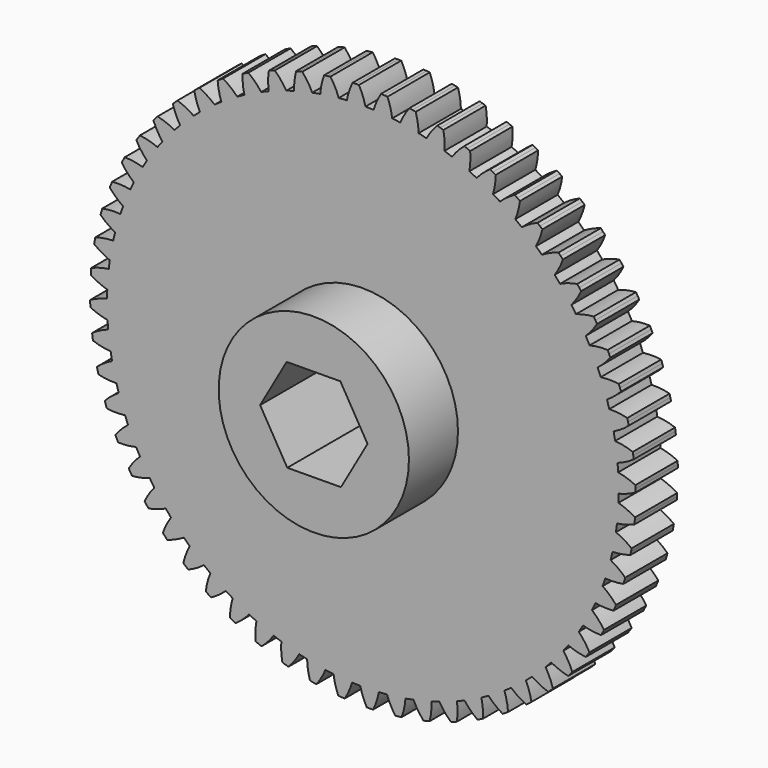
from build123d import *

# Parameters (mm, degrees)
F1_DEPTH = 6.35
F2_R     = 11.43
F3_DEPTH = 7.366
F5_DEPTH = 254


with BuildPart() as f1:
    # F0 (on Front) → F1 (new body)
    with BuildSketch(Plane.XZ):
        with BuildLine():
            ThreePointArc((0.314784, 30.732388), (-0.009529, 31.774656), (-0.473769, 32.762575))
            ThreePointArc((-0.473769, 32.762575), (-0.665753, 32.759236), (-0.857714, 32.754772))
            ThreePointArc((-0.857714, 32.754772), (-1.049645, 32.749183), (-1.241541, 32.74247))
            ThreePointArc((-1.241541, 32.74247), (-1.653441, 31.731609), (-1.922762, 30.673796))
            ThreePointArc((-1.922762, 30.673796), (-2.411362, 30.639257), (-2.89935, 30.596937))
            ThreePointArc((-2.89935, 30.596937), (-3.330833, 31.599595), (-3.895795, 32.533575))
            ThreePointArc((-3.895795, 32.533575), (-4.086378, 32.510187), (-4.276821, 32.485682))
            ThreePointArc((-4.276821, 32.485682), (-4.467117, 32.460062), (-4.65726, 32.433327))
            ThreePointArc((-4.65726, 32.433327), (-4.961239, 31.384948), (-5.118513, 30.304778))
            ThreePointArc((-5.118513, 30.304778), (-5.600827, 30.219356), (-6.081717, 30.126259))
            ThreePointArc((-6.081717, 30.126259), (-6.615644, 31.078322), (-7.275138, 31.948132))
            ThreePointArc((-7.275138, 31.948132), (-7.462233, 31.90495), (-7.649071, 31.860673))
            ThreePointArc((-7.649071, 31.860673), (-7.835646, 31.815301), (-8.021952, 31.768837))
            ThreePointArc((-8.021952, 31.768837), (-8.214681, 30.694427), (-8.258185, 29.603735))
            ThreePointArc((-8.258185, 29.603735), (-8.728928, 29.468366), (-9.197453, 29.325511))
            ThreePointArc((-9.197453, 29.325511), (-9.827972, 30.216549), (-10.574774, 31.012657))
            ThreePointArc((-10.574774, 31.012657), (-10.756329, 30.950156), (-10.937516, 30.886591))
            ThreePointArc((-10.937516, 30.886591), (-11.118326, 30.821966), (-11.298755, 30.756282))
            ThreePointArc((-11.298755, 30.756282), (-11.378122, 29.667612), (-11.307379, 28.578347))
            ThreePointArc((-11.307379, 28.578347), (-11.761393, 28.394514), (-12.212419, 28.203468))
            ThreePointArc((-12.212419, 28.203468), (-12.932623, 29.023717), (-13.758549, 29.737402))
            ThreePointArc((-13.758549, 29.737402), (-13.932577, 29.656265), (-14.106127, 29.574109))
            ThreePointArc((-14.106127, 29.574109), (-14.279192, 29.490938), (-14.451766, 29.406754))
            ThreePointArc((-14.451766, 29.406754), (-14.416901, 28.315752), (-14.232687, 27.239849))
            ThreePointArc((-14.232687, 27.239849), (-14.664997, 27.009565), (-15.093583, 26.772421))
            ThreePointArc((-15.093583, 26.772421), (-15.895581, 27.512894), (-16.791583, 28.136337))
            ThreePointArc((-16.791583, 28.136337), (-16.956177, 28.037454), (-17.120188, 27.937608))
            ThreePointArc((-17.120188, 27.937608), (-17.283611, 27.836802), (-17.446441, 27.73504))
            ThreePointArc((-17.446441, 27.73504), (-17.297726, 26.653659), (-17.002058, 25.602906))
            ThreePointArc((-17.002058, 25.602906), (-17.407929, 25.328694), (-17.809379, 25.04805))
            ThreePointArc((-17.809379, 25.04805), (-18.684384, 25.700635), (-19.640646, 26.227005))
            ThreePointArc((-19.640646, 26.227005), (-19.794001, 26.111459), (-19.946677, 25.995016))
            ThreePointArc((-19.946677, 25.995016), (-20.098668, 25.87768), (-20.249969, 25.759455))
            ThreePointArc((-20.249969, 25.759455), (-19.989033, 24.699543), (-19.585152, 23.685451))
            ThreePointArc((-19.585152, 23.685451), (-19.960136, 23.370317), (-20.330051, 23.049247))
            ThreePointArc((-20.330051, 23.049247), (-21.268477, 23.606795), (-22.274521, 24.030324))
            ThreePointArc((-22.274521, 24.030324), (-22.414958, 23.899381), (-22.554626, 23.767617))
            ThreePointArc((-22.554626, 23.767617), (-22.693519, 23.635036), (-22.831633, 23.501644))
            ThreePointArc((-22.831633, 23.501644), (-22.461336, 22.474813), (-21.953666, 21.508494))
            ThreePointArc((-21.953666, 21.508494), (-22.293656, 21.15589), (-22.627983, 20.797912))
            ThreePointArc((-22.627983, 20.797912), (-23.619548, 21.254313), (-24.664351, 21.570362))
            ThreePointArc((-24.664351, 21.570362), (-24.790332, 21.425456), (-24.915462, 21.279815))
            ThreePointArc((-24.915462, 21.279815), (-25.039736, 21.133442), (-25.16315, 20.986344))
            ThreePointArc((-25.16315, 20.986344), (-24.687548, 20.003845), (-24.081651, 19.095885))
            ThreePointArc((-24.081651, 19.095885), (-24.382922, 18.709674), (-24.677999, 18.31871))
            ThreePointArc((-24.677999, 18.31871), (-25.711838, 18.668965), (-26.783954, 18.874071))
            ThreePointArc((-26.783954, 18.874071), (-26.894098, 18.71679), (-27.003319, 18.558867))
            ThreePointArc((-27.003319, 18.558867), (-27.111612, 18.400306), (-27.218974, 18.241113))
            ThreePointArc((-27.218974, 18.241113), (-26.643279, 17.31371), (-25.945793, 16.474058))
            ThreePointArc((-25.945793, 16.474058), (-26.205043, 16.058471), (-26.457637, 15.638805))
            ThreePointArc((-26.457637, 15.638805), (-27.522424, 15.879075), (-28.610107, 15.970991))
            ThreePointArc((-28.610107, 15.970991), (-28.703207, 15.803059), (-28.795322, 15.634584))
            ThreePointArc((-28.795322, 15.634584), (-28.886447, 15.465572), (-28.976581, 15.296029))
            ThreePointArc((-28.976581, 15.296029), (-28.307099, 14.433883), (-27.525667, 13.671737))
            ThreePointArc((-27.525667, 13.671737), (-27.740056, 13.231328), (-27.947399, 12.787558))
            ThreePointArc((-27.947399, 12.787558), (-29.031469, 12.915211), (-30.122801, 12.89293))
            ThreePointArc((-30.122801, 12.89293), (-30.197837, 12.716186), (-30.271837, 12.539005))
            ThreePointArc((-30.271837, 12.539005), (-30.344797, 12.361394), (-30.416715, 12.183358))
            ThreePointArc((-30.416715, 12.183358), (-29.660782, 11.395915), (-28.803964, 10.719627))
            ThreePointArc((-28.803964, 10.719627), (-28.971144, 10.25922), (-29.130964, 9.796208))
            ThreePointArc((-29.130964, 9.796208), (-30.222438, 9.809846), (-31.305463, 9.673611))
            ThreePointArc((-31.305463, 9.673611), (-31.361614, 9.489992), (-31.416687, 9.306047))
            ThreePointArc((-31.416687, 9.306047), (-31.470682, 9.121782), (-31.523597, 8.937204))
            ThreePointArc((-31.523597, 8.937204), (-30.689494, 8.233091), (-29.766679, 7.650069))
            ThreePointArc((-29.766679, 7.650069), (-29.884817, 7.17471), (-29.995364, 6.697528))
            ThreePointArc((-29.995364, 6.697528), (-31.082285, 6.597001), (-32.145136, 6.348306))
            ThreePointArc((-32.145136, 6.348306), (-32.181786, 6.159823), (-32.21733, 5.971129))
            ThreePointArc((-32.21733, 5.971129), (-32.251769, 5.78223), (-32.285099, 5.593132))
            ThreePointArc((-32.285099, 5.593132), (-31.381966, 4.980063), (-30.403264, 4.496696))
            ThreePointArc((-30.403264, 4.496696), (-30.471066, 4.011592), (-30.531129, 3.525469))
            ThreePointArc((-30.531129, 3.525469), (-31.601587, 3.311879), (-32.63262, 2.953448))
            ThreePointArc((-32.63262, 2.953448), (-32.649367, 2.762167), (-32.664993, 2.570791))
            ThreePointArc((-32.664993, 2.570791), (-32.679498, 2.379326), (-32.69288, 2.187781))
            ThreePointArc((-32.69288, 2.187781), (-31.730611, 1.672473), (-30.706745, 1.294056))
            ThreePointArc((-30.706745, 1.294056), (-30.723468, 0.804522), (-30.732388, 0.314784))
            ThreePointArc((-30.732388, 0.314784), (-31.774656, -0.009529), (-32.762575, -0.473769))
            ThreePointArc((-32.762575, -0.473769), (-32.759236, -0.665753), (-32.754772, -0.857714))
            ThreePointArc((-32.754772, -0.857714), (-32.749183, -1.049645), (-32.74247, -1.241541))
            ThreePointArc((-32.74247, -1.241541), (-31.731609, -1.653441), (-30.673796, -1.922762))
            ThreePointArc((-30.673796, -1.922762), (-30.639257, -2.411362), (-30.596937, -2.89935))
            ThreePointArc((-30.596937, -2.89935), (-31.599595, -3.330833), (-32.533575, -3.895795))
            ThreePointArc((-32.533575, -3.895795), (-32.510187, -4.086378), (-32.485682, -4.276821))
            ThreePointArc((-32.485682, -4.276821), (-32.460062, -4.467117), (-32.433327, -4.65726))
            ThreePointArc((-32.433327, -4.65726), (-31.384948, -4.961239), (-30.304778, -5.118513))
            ThreePointArc((-30.304778, -5.118513), (-30.219356, -5.600827), (-30.126259, -6.081717))
            ThreePointArc((-30.126259, -6.081717), (-31.078322, -6.615644), (-31.948132, -7.275138))
            ThreePointArc((-31.948132, -7.275138), (-31.90495, -7.462233), (-31.860673, -7.649071))
            ThreePointArc((-31.860673, -7.649071), (-31.815301, -7.835646), (-31.768837, -8.021952))
            ThreePointArc((-31.768837, -8.021952), (-30.694427, -8.214681), (-29.603735, -8.258185))
            ThreePointArc((-29.603735, -8.258185), (-29.468366, -8.728928), (-29.325511, -9.197453))
            ThreePointArc((-29.325511, -9.197453), (-30.216549, -9.827972), (-31.012657, -10.574774))
            ThreePointArc((-31.012657, -10.574774), (-30.950156, -10.756329), (-30.886591, -10.937516))
            ThreePointArc((-30.886591, -10.937516), (-30.821966, -11.118326), (-30.756282, -11.298755))
            ThreePointArc((-30.756282, -11.298755), (-29.667612, -11.378122), (-28.578347, -11.307379))
            ThreePointArc((-28.578347, -11.307379), (-28.394514, -11.761393), (-28.203468, -12.212419))
            ThreePointArc((-28.203468, -12.212419), (-29.023717, -12.932623), (-29.737402, -13.758549))
            ThreePointArc((-29.737402, -13.758549), (-29.656265, -13.932577), (-29.574109, -14.106127))
            ThreePointArc((-29.574109, -14.106127), (-29.490938, -14.279192), (-29.406754, -14.451766))
            ThreePointArc((-29.406754, -14.451766), (-28.315752, -14.416901), (-27.239849, -14.232687))
            ThreePointArc((-27.239849, -14.232687), (-27.009565, -14.664997), (-26.772421, -15.093583))
            ThreePointArc((-26.772421, -15.093583), (-27.512894, -15.895581), (-28.136337, -16.791583))
            ThreePointArc((-28.136337, -16.791583), (-28.037454, -16.956177), (-27.937608, -17.120188))
            ThreePointArc((-27.937608, -17.120188), (-27.836802, -17.283611), (-27.73504, -17.446441))
            ThreePointArc((-27.73504, -17.446441), (-26.653659, -17.297726), (-25.602906, -17.002058))
            ThreePointArc((-25.602906, -17.002058), (-25.328694, -17.407929), (-25.04805, -17.809379))
            ThreePointArc((-25.04805, -17.809379), (-25.700635, -18.684384), (-26.227005, -19.640646))
            ThreePointArc((-26.227005, -19.640646), (-26.111459, -19.794001), (-25.995016, -19.946677))
            ThreePointArc((-25.995016, -19.946677), (-25.87768, -20.098668), (-25.759455, -20.249969))
            ThreePointArc((-25.759455, -20.249969), (-24.699543, -19.989033), (-23.685451, -19.585152))
            ThreePointArc((-23.685451, -19.585152), (-23.370317, -19.960136), (-23.049247, -20.330051))
            ThreePointArc((-23.049247, -20.330051), (-23.606795, -21.268477), (-24.030324, -22.274521))
            ThreePointArc((-24.030324, -22.274521), (-23.899381, -22.414958), (-23.767617, -22.554626))
            ThreePointArc((-23.767617, -22.554626), (-23.635036, -22.693519), (-23.501644, -22.831633))
            ThreePointArc((-23.501644, -22.831633), (-22.474813, -22.461336), (-21.508494, -21.953666))
            ThreePointArc((-21.508494, -21.953666), (-21.15589, -22.293656), (-20.797912, -22.627983))
            ThreePointArc((-20.797912, -22.627983), (-21.254313, -23.619548), (-21.570362, -24.664351))
            ThreePointArc((-21.570362, -24.664351), (-21.425456, -24.790332), (-21.279815, -24.915462))
            ThreePointArc((-21.279815, -24.915462), (-21.133442, -25.039736), (-20.986344, -25.16315))
            ThreePointArc((-20.986344, -25.16315), (-20.003845, -24.687548), (-19.095885, -24.081651))
            ThreePointArc((-19.095885, -24.081651), (-18.709674, -24.382922), (-18.31871, -24.677999))
            ThreePointArc((-18.31871, -24.677999), (-18.668965, -25.711838), (-18.874071, -26.783954))
            ThreePointArc((-18.874071, -26.783954), (-18.71679, -26.894098), (-18.558867, -27.003319))
            ThreePointArc((-18.558867, -27.003319), (-18.400306, -27.111612), (-18.241113, -27.218974))
            ThreePointArc((-18.241113, -27.218974), (-17.31371, -26.643279), (-16.474058, -25.945793))
            ThreePointArc((-16.474058, -25.945793), (-16.058471, -26.205043), (-15.638805, -26.457637))
            ThreePointArc((-15.638805, -26.457637), (-15.879075, -27.522424), (-15.970991, -28.610107))
            ThreePointArc((-15.970991, -28.610107), (-15.803059, -28.703207), (-15.634584, -28.795322))
            ThreePointArc((-15.634584, -28.795322), (-15.465572, -28.886447), (-15.296029, -28.976581))
            ThreePointArc((-15.296029, -28.976581), (-14.433883, -28.307099), (-13.671737, -27.525667))
            ThreePointArc((-13.671737, -27.525667), (-13.231328, -27.740056), (-12.787558, -27.947399))
            ThreePointArc((-12.787558, -27.947399), (-12.915211, -29.031469), (-12.89293, -30.122801))
            ThreePointArc((-12.89293, -30.122801), (-12.716186, -30.197837), (-12.539005, -30.271837))
            ThreePointArc((-12.539005, -30.271837), (-12.361394, -30.344797), (-12.183358, -30.416715))
            ThreePointArc((-12.183358, -30.416715), (-11.395915, -29.660782), (-10.719627, -28.803964))
            ThreePointArc((-10.719627, -28.803964), (-10.25922, -28.971144), (-9.796208, -29.130964))
            ThreePointArc((-9.796208, -29.130964), (-9.809846, -30.222438), (-9.673611, -31.305463))
            ThreePointArc((-9.673611, -31.305463), (-9.489992, -31.361614), (-9.306047, -31.416687))
            ThreePointArc((-9.306047, -31.416687), (-9.121782, -31.470682), (-8.937204, -31.523597))
            ThreePointArc((-8.937204, -31.523597), (-8.233091, -30.689494), (-7.650069, -29.766679))
            ThreePointArc((-7.650069, -29.766679), (-7.17471, -29.884817), (-6.697528, -29.995364))
            ThreePointArc((-6.697528, -29.995364), (-6.597001, -31.082285), (-6.348306, -32.145136))
            ThreePointArc((-6.348306, -32.145136), (-6.159823, -32.181786), (-5.971129, -32.21733))
            ThreePointArc((-5.971129, -32.21733), (-5.78223, -32.251769), (-5.593132, -32.285099))
            ThreePointArc((-5.593132, -32.285099), (-4.980063, -31.381966), (-4.496696, -30.403264))
            ThreePointArc((-4.496696, -30.403264), (-4.011592, -30.471066), (-3.525469, -30.531129))
            ThreePointArc((-3.525469, -30.531129), (-3.311879, -31.601587), (-2.953448, -32.63262))
            ThreePointArc((-2.953448, -32.63262), (-2.762167, -32.649367), (-2.570791, -32.664993))
            ThreePointArc((-2.570791, -32.664993), (-2.379326, -32.679498), (-2.187781, -32.69288))
            ThreePointArc((-2.187781, -32.69288), (-1.672473, -31.730611), (-1.294056, -30.706745))
            ThreePointArc((-1.294056, -30.706745), (-0.804522, -30.723468), (-0.314784, -30.732388))
            ThreePointArc((-0.314784, -30.732388), (0.009529, -31.774656), (0.473769, -32.762575))
            ThreePointArc((0.473769, -32.762575), (0.665753, -32.759236), (0.857714, -32.754772))
            ThreePointArc((0.857714, -32.754772), (1.049645, -32.749183), (1.241541, -32.74247))
            ThreePointArc((1.241541, -32.74247), (1.653441, -31.731609), (1.922762, -30.673796))
            ThreePointArc((1.922762, -30.673796), (2.411362, -30.639257), (2.89935, -30.596937))
            ThreePointArc((2.89935, -30.596937), (3.330833, -31.599595), (3.895795, -32.533575))
            ThreePointArc((3.895795, -32.533575), (4.086378, -32.510187), (4.276821, -32.485682))
            ThreePointArc((4.276821, -32.485682), (4.467117, -32.460062), (4.65726, -32.433327))
            ThreePointArc((4.65726, -32.433327), (4.961239, -31.384948), (5.118513, -30.304778))
            ThreePointArc((5.118513, -30.304778), (5.600827, -30.219356), (6.081717, -30.126259))
            ThreePointArc((6.081717, -30.126259), (6.615644, -31.078322), (7.275138, -31.948132))
            ThreePointArc((7.275138, -31.948132), (7.462233, -31.90495), (7.649071, -31.860673))
            ThreePointArc((7.649071, -31.860673), (7.835646, -31.815301), (8.021952, -31.768837))
            ThreePointArc((8.021952, -31.768837), (8.214681, -30.694427), (8.258185, -29.603735))
            Line((8.258185, -29.603735), (9.197453, -29.325511))
            ThreePointArc((9.197453, -29.325511), (9.827972, -30.216549), (10.574774, -31.012657))
            ThreePointArc((10.574774, -31.012657), (10.756329, -30.950156), (10.937516, -30.886591))
            ThreePointArc((10.937516, -30.886591), (11.118326, -30.821966), (11.298755, -30.756282))
            ThreePointArc((11.298755, -30.756282), (11.378122, -29.667612), (11.307379, -28.578347))
            ThreePointArc((11.307379, -28.578347), (11.761393, -28.394514), (12.212419, -28.203468))
            ThreePointArc((12.212419, -28.203468), (12.932623, -29.023717), (13.758549, -29.737402))
            ThreePointArc((13.758549, -29.737402), (13.932577, -29.656265), (14.106127, -29.574109))
            ThreePointArc((14.106127, -29.574109), (14.279192, -29.490938), (14.451766, -29.406754))
            ThreePointArc((14.451766, -29.406754), (14.416901, -28.315752), (14.232687, -27.239849))
            ThreePointArc((14.232687, -27.239849), (14.664997, -27.009565), (15.093583, -26.772421))
            ThreePointArc((15.093583, -26.772421), (15.895581, -27.512894), (16.791583, -28.136337))
            ThreePointArc((16.791583, -28.136337), (16.956177, -28.037454), (17.120188, -27.937608))
            ThreePointArc((17.120188, -27.937608), (17.283611, -27.836802), (17.446441, -27.73504))
            ThreePointArc((17.446441, -27.73504), (17.297726, -26.653659), (17.002058, -25.602906))
            ThreePointArc((17.002058, -25.602906), (17.407929, -25.328694), (17.809379, -25.04805))
            ThreePointArc((17.809379, -25.04805), (18.684384, -25.700635), (19.640646, -26.227005))
            ThreePointArc((19.640646, -26.227005), (19.794001, -26.111459), (19.946677, -25.995016))
            ThreePointArc((19.946677, -25.995016), (20.098668, -25.87768), (20.249969, -25.759455))
            ThreePointArc((20.249969, -25.759455), (19.989033, -24.699543), (19.585152, -23.685451))
            ThreePointArc((19.585152, -23.685451), (19.960136, -23.370317), (20.330051, -23.049247))
            ThreePointArc((20.330051, -23.049247), (21.268477, -23.606795), (22.274521, -24.030324))
            ThreePointArc((22.274521, -24.030324), (22.414958, -23.899381), (22.554626, -23.767617))
            ThreePointArc((22.554626, -23.767617), (22.693519, -23.635036), (22.831633, -23.501644))
            ThreePointArc((22.831633, -23.501644), (22.461336, -22.474813), (21.953666, -21.508494))
            ThreePointArc((21.953666, -21.508494), (22.293656, -21.15589), (22.627983, -20.797912))
            ThreePointArc((22.627983, -20.797912), (23.619548, -21.254313), (24.664351, -21.570362))
            ThreePointArc((24.664351, -21.570362), (24.790332, -21.425456), (24.915462, -21.279815))
            ThreePointArc((24.915462, -21.279815), (25.039736, -21.133442), (25.16315, -20.986344))
            ThreePointArc((25.16315, -20.986344), (24.687548, -20.003845), (24.081651, -19.095885))
            ThreePointArc((24.081651, -19.095885), (24.382922, -18.709674), (24.677999, -18.31871))
            ThreePointArc((24.677999, -18.31871), (25.711838, -18.668965), (26.783954, -18.874071))
            ThreePointArc((26.783954, -18.874071), (26.894098, -18.71679), (27.003319, -18.558867))
            ThreePointArc((27.003319, -18.558867), (27.111612, -18.400306), (27.218974, -18.241113))
            ThreePointArc((27.218974, -18.241113), (26.643279, -17.31371), (25.945793, -16.474058))
            ThreePointArc((25.945793, -16.474058), (26.205043, -16.058471), (26.457637, -15.638805))
            ThreePointArc((26.457637, -15.638805), (27.522424, -15.879075), (28.610107, -15.970991))
            ThreePointArc((28.610107, -15.970991), (28.703207, -15.803059), (28.795322, -15.634584))
            ThreePointArc((28.795322, -15.634584), (28.886447, -15.465572), (28.976581, -15.296029))
            ThreePointArc((28.976581, -15.296029), (28.307099, -14.433883), (27.525667, -13.671737))
            ThreePointArc((27.525667, -13.671737), (27.740056, -13.231328), (27.947399, -12.787558))
            ThreePointArc((27.947399, -12.787558), (29.031469, -12.915211), (30.122801, -12.89293))
            ThreePointArc((30.122801, -12.89293), (30.197837, -12.716186), (30.271837, -12.539005))
            ThreePointArc((30.271837, -12.539005), (30.344797, -12.361394), (30.416715, -12.183358))
            ThreePointArc((30.416715, -12.183358), (29.660782, -11.395915), (28.803964, -10.719627))
            ThreePointArc((28.803964, -10.719627), (28.971144, -10.25922), (29.130964, -9.796208))
            ThreePointArc((29.130964, -9.796208), (30.222438, -9.809846), (31.305463, -9.673611))
            ThreePointArc((31.305463, -9.673611), (31.361614, -9.489992), (31.416687, -9.306047))
            ThreePointArc((31.416687, -9.306047), (31.470682, -9.121782), (31.523597, -8.937204))
            ThreePointArc((31.523597, -8.937204), (30.689494, -8.233091), (29.766679, -7.650069))
            ThreePointArc((29.766679, -7.650069), (29.884817, -7.17471), (29.995364, -6.697528))
            ThreePointArc((29.995364, -6.697528), (31.082285, -6.597001), (32.145136, -6.348306))
            ThreePointArc((32.145136, -6.348306), (32.181786, -6.159823), (32.21733, -5.971129))
            ThreePointArc((32.21733, -5.971129), (32.251769, -5.78223), (32.285099, -5.593132))
            ThreePointArc((32.285099, -5.593132), (31.381966, -4.980063), (30.403264, -4.496696))
            ThreePointArc((30.403264, -4.496696), (30.471066, -4.011592), (30.531129, -3.525469))
            ThreePointArc((30.531129, -3.525469), (31.601587, -3.311879), (32.63262, -2.953448))
            ThreePointArc((32.63262, -2.953448), (32.649367, -2.762167), (32.664993, -2.570791))
            ThreePointArc((32.664993, -2.570791), (32.679498, -2.379326), (32.69288, -2.187781))
            ThreePointArc((32.69288, -2.187781), (31.730611, -1.672473), (30.706745, -1.294056))
            ThreePointArc((30.706745, -1.294056), (30.723468, -0.804522), (30.732388, -0.314784))
            ThreePointArc((30.732388, -0.314784), (31.774656, 0.009529), (32.762575, 0.473769))
            ThreePointArc((32.762575, 0.473769), (32.759236, 0.665753), (32.754772, 0.857714))
            ThreePointArc((32.754772, 0.857714), (32.749183, 1.049645), (32.74247, 1.241541))
            ThreePointArc((32.74247, 1.241541), (31.731609, 1.653441), (30.673796, 1.922762))
            ThreePointArc((30.673796, 1.922762), (30.639257, 2.411362), (30.596937, 2.89935))
            ThreePointArc((30.596937, 2.89935), (31.599595, 3.330833), (32.533575, 3.895795))
            ThreePointArc((32.533575, 3.895795), (32.510187, 4.086378), (32.485682, 4.276821))
            ThreePointArc((32.485682, 4.276821), (32.460062, 4.467117), (32.433327, 4.65726))
            ThreePointArc((32.433327, 4.65726), (31.384948, 4.961239), (30.304778, 5.118513))
            ThreePointArc((30.304778, 5.118513), (30.219356, 5.600827), (30.126259, 6.081717))
            ThreePointArc((30.126259, 6.081717), (31.078322, 6.615644), (31.948132, 7.275138))
            ThreePointArc((31.948132, 7.275138), (31.90495, 7.462233), (31.860673, 7.649071))
            ThreePointArc((31.860673, 7.649071), (31.815301, 7.835646), (31.768837, 8.021952))
            ThreePointArc((31.768837, 8.021952), (30.694427, 8.214681), (29.603735, 8.258185))
            ThreePointArc((29.603735, 8.258185), (29.468366, 8.728928), (29.325511, 9.197453))
            ThreePointArc((29.325511, 9.197453), (30.216549, 9.827972), (31.012657, 10.574774))
            ThreePointArc((31.012657, 10.574774), (30.950156, 10.756329), (30.886591, 10.937516))
            ThreePointArc((30.886591, 10.937516), (30.821966, 11.118326), (30.756282, 11.298755))
            ThreePointArc((30.756282, 11.298755), (29.667612, 11.378122), (28.578347, 11.307379))
            ThreePointArc((28.578347, 11.307379), (28.394514, 11.761393), (28.203468, 12.212419))
            ThreePointArc((28.203468, 12.212419), (29.023717, 12.932623), (29.737402, 13.758549))
            ThreePointArc((29.737402, 13.758549), (29.656265, 13.932577), (29.574109, 14.106127))
            ThreePointArc((29.574109, 14.106127), (29.490938, 14.279192), (29.406754, 14.451766))
            ThreePointArc((29.406754, 14.451766), (28.315752, 14.416901), (27.239849, 14.232687))
            ThreePointArc((27.239849, 14.232687), (27.009565, 14.664997), (26.772421, 15.093583))
            ThreePointArc((26.772421, 15.093583), (27.512894, 15.895581), (28.136337, 16.791583))
            ThreePointArc((28.136337, 16.791583), (28.037454, 16.956177), (27.937608, 17.120188))
            ThreePointArc((27.937608, 17.120188), (27.836802, 17.283611), (27.73504, 17.446441))
            ThreePointArc((27.73504, 17.446441), (26.653659, 17.297726), (25.602906, 17.002058))
            ThreePointArc((25.602906, 17.002058), (25.328694, 17.407929), (25.04805, 17.809379))
            ThreePointArc((25.04805, 17.809379), (25.700635, 18.684384), (26.227005, 19.640646))
            ThreePointArc((26.227005, 19.640646), (26.111459, 19.794001), (25.995016, 19.946677))
            ThreePointArc((25.995016, 19.946677), (25.87768, 20.098668), (25.759455, 20.249969))
            ThreePointArc((25.759455, 20.249969), (24.699543, 19.989033), (23.685451, 19.585152))
            ThreePointArc((23.685451, 19.585152), (23.370317, 19.960136), (23.049247, 20.330051))
            ThreePointArc((23.049247, 20.330051), (23.606795, 21.268477), (24.030324, 22.274521))
            ThreePointArc((24.030324, 22.274521), (23.899381, 22.414958), (23.767617, 22.554626))
            ThreePointArc((23.767617, 22.554626), (23.635036, 22.693519), (23.501644, 22.831633))
            ThreePointArc((23.501644, 22.831633), (22.474813, 22.461336), (21.508494, 21.953666))
            ThreePointArc((21.508494, 21.953666), (21.15589, 22.293656), (20.797912, 22.627983))
            ThreePointArc((20.797912, 22.627983), (21.254313, 23.619548), (21.570362, 24.664351))
            ThreePointArc((21.570362, 24.664351), (21.425456, 24.790332), (21.279815, 24.915462))
            ThreePointArc((21.279815, 24.915462), (21.133442, 25.039736), (20.986344, 25.16315))
            ThreePointArc((20.986344, 25.16315), (20.003845, 24.687548), (19.095885, 24.081651))
            ThreePointArc((19.095885, 24.081651), (18.709674, 24.382922), (18.31871, 24.677999))
            ThreePointArc((18.31871, 24.677999), (18.668965, 25.711838), (18.874071, 26.783954))
            ThreePointArc((18.874071, 26.783954), (18.71679, 26.894098), (18.558867, 27.003319))
            ThreePointArc((18.558867, 27.003319), (18.400306, 27.111612), (18.241113, 27.218974))
            ThreePointArc((18.241113, 27.218974), (17.31371, 26.643279), (16.474058, 25.945793))
            ThreePointArc((16.474058, 25.945793), (16.058471, 26.205043), (15.638805, 26.457637))
            ThreePointArc((15.638805, 26.457637), (15.879075, 27.522424), (15.970991, 28.610107))
            ThreePointArc((15.970991, 28.610107), (15.803059, 28.703207), (15.634584, 28.795322))
            ThreePointArc((15.634584, 28.795322), (15.465572, 28.886447), (15.296029, 28.976581))
            ThreePointArc((15.296029, 28.976581), (14.433883, 28.307099), (13.671737, 27.525667))
            ThreePointArc((13.671737, 27.525667), (13.231328, 27.740056), (12.787558, 27.947399))
            ThreePointArc((12.787558, 27.947399), (12.915211, 29.031469), (12.89293, 30.122801))
            ThreePointArc((12.89293, 30.122801), (12.716186, 30.197837), (12.539005, 30.271837))
            ThreePointArc((12.539005, 30.271837), (12.361394, 30.344797), (12.183358, 30.416715))
            ThreePointArc((12.183358, 30.416715), (11.395915, 29.660782), (10.719627, 28.803964))
            ThreePointArc((10.719627, 28.803964), (10.25922, 28.971144), (9.796208, 29.130964))
            ThreePointArc((9.796208, 29.130964), (9.809846, 30.222438), (9.673611, 31.305463))
            ThreePointArc((9.673611, 31.305463), (9.489992, 31.361614), (9.306047, 31.416687))
            ThreePointArc((9.306047, 31.416687), (9.121782, 31.470682), (8.937204, 31.523597))
            ThreePointArc((8.937204, 31.523597), (8.233091, 30.689494), (7.650069, 29.766679))
            ThreePointArc((7.650069, 29.766679), (7.17471, 29.884817), (6.697528, 29.995364))
            ThreePointArc((6.697528, 29.995364), (6.597001, 31.082285), (6.348306, 32.145136))
            ThreePointArc((6.348306, 32.145136), (6.159823, 32.181786), (5.971129, 32.21733))
            ThreePointArc((5.971129, 32.21733), (5.78223, 32.251769), (5.593132, 32.285099))
            ThreePointArc((5.593132, 32.285099), (4.980063, 31.381966), (4.496696, 30.403264))
            ThreePointArc((4.496696, 30.403264), (4.011592, 30.471066), (3.525469, 30.531129))
            ThreePointArc((3.525469, 30.531129), (3.311879, 31.601587), (2.953448, 32.63262))
            ThreePointArc((2.953448, 32.63262), (2.762167, 32.649367), (2.570791, 32.664993))
            ThreePointArc((2.570791, 32.664993), (2.379326, 32.679498), (2.187781, 32.69288))
            ThreePointArc((2.187781, 32.69288), (1.672473, 31.730611), (1.294056, 30.706745))
            ThreePointArc((1.294056, 30.706745), (0.804522, 30.723468), (0.314784, 30.732388))
        make_face()
    extrude(amount=F1_DEPTH)

    # F2 (on face) → F3 (join)
    with BuildSketch(Plane.XZ.offset(6.35)):
        Circle(F2_R)
    extrude(amount=F3_DEPTH)

    # F4 (on face) → F5 (cut)
    with BuildSketch(Plane.XZ.offset(13.716)):
        Polygon((3.187199, 5.610356), (-3.265111, 5.565373), (-6.45231, -0.044983), (-3.187199, -5.610356), (3.265111, -5.565373), (6.45231, 0.044983), align=None)
    extrude(amount=-F5_DEPTH, mode=Mode.SUBTRACT)


solid = f1.part
